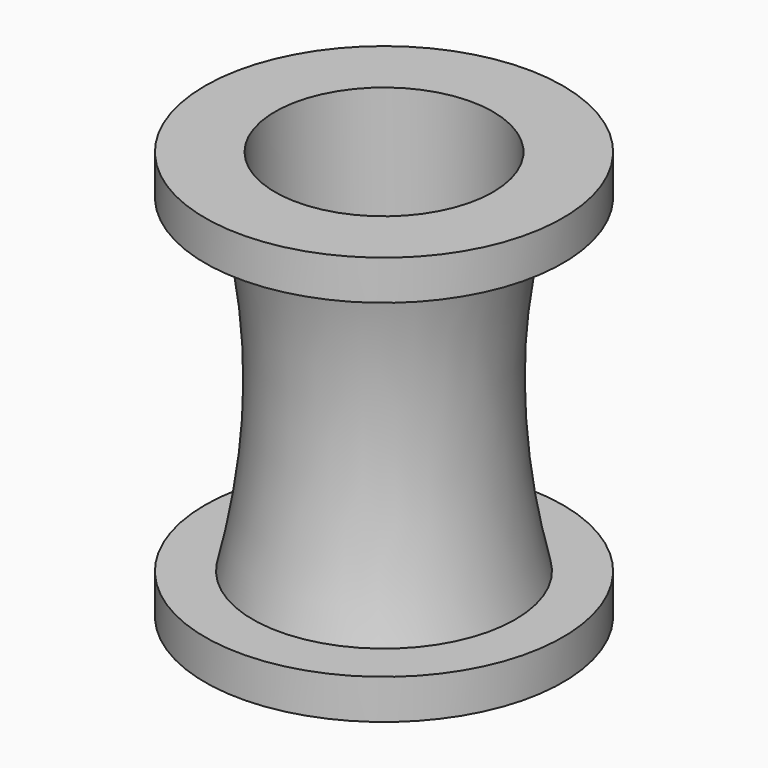
from build123d import *

# Parameters (mm, degrees)
F2_R     = 13.7
F3_DEPTH = 51.4


with BuildPart() as f1:
    # F0 (on Front) → F1 (revolve)
    with BuildSketch(Plane.XZ):
        with BuildLine():
            Line((0, -25.7), (0, 0))
            Line((0, 0), (0, 25.7))
            Line((0, 25.7), (-22.5, 25.7))
            Line((-22.5, 25.7), (-22.5, 20.7))
            Line((-22.5, 20.7), (-16.5, 20.7))
            add(Edge.make_bspline(
                [(-16.5, 20.7), (-12.589287, 6.428571), (-13.303572, -7.5), (-16.5, -20.7)],
                knots=[0, 0, 0, 0, 41.4, 41.4, 41.4, 41.4], degree=3))
            Line((-16.5, -20.7), (-22.5, -20.7))
            Line((-22.5, -20.7), (-22.5, -25.7))
            Line((-22.5, -25.7), (0, -25.7))
        make_face()
    revolve(axis=Axis((0, 0, -12.85), (0, 0, -1)))

    # F2 (on face) → F3 (cut, through all)
    with BuildSketch(Plane.XY.offset(25.7)):
        Circle(F2_R)
    extrude(amount=-F3_DEPTH, mode=Mode.SUBTRACT)


solid = f1.part
